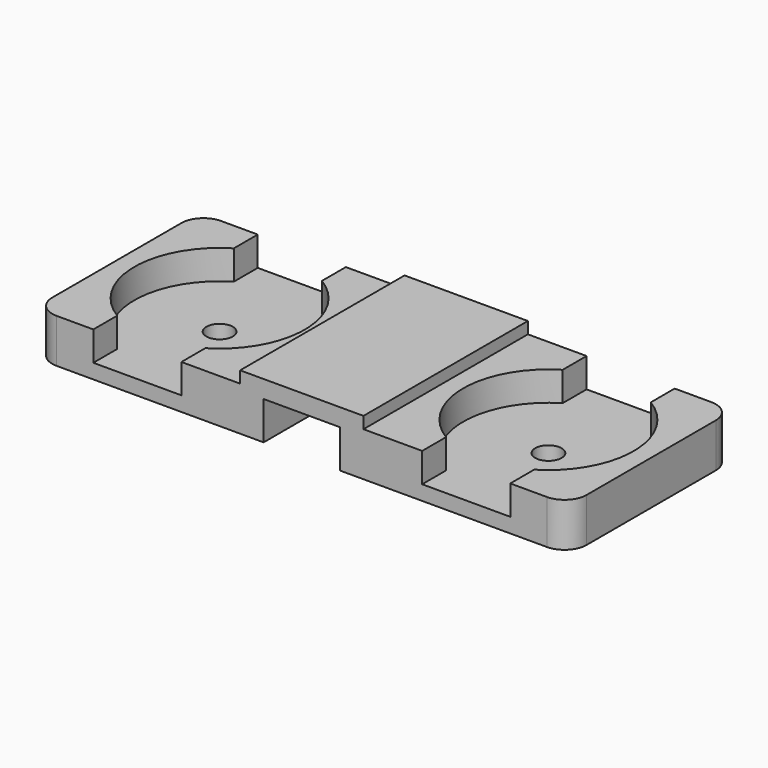
from build123d import *

# Parameters (mm, degrees)
PAD_DEPTH       = 7
SKETCH006_W     = 14
SKETCH006_H     = 14
PAD002_DEPTH    = 3
POCKET004_DEPTH = 2
SKETCH008_R     = 0.9
POCKET005_DEPTH = 1.001
FILLET001_R     = 1.5


with BuildPart() as clamp_unit001:
    # Sketch → Pad (new body, symmetric)
    with BuildSketch(Plane.XZ):
        Polygon((-2.6, 3.8), (4.2, 3.8), (4.2, 0), (2.6, 0), (2.6, 2.6), (-2.6, 2.6), (-2.6, 0), (-4.2, 0), (-4.2, 3.8), align=None)
    extrude(amount=PAD_DEPTH, both=True)


with BuildPart() as obj1:
    # Sketch006 → Pad002 (new body)
    with BuildSketch(Plane.XY):
        Rectangle(SKETCH006_W, SKETCH006_H)
    extrude(amount=PAD002_DEPTH)

    # Sketch007 → Pocket004 (cut)
    with BuildSketch(Plane.XY.offset(3)):
        with BuildLine():
            Line((-3, 7), (-3, 4.963869))
            ThreePointArc((-3, 4.963869), (-5.8, 0), (-3, -4.963869))
            Line((-3, -7), (-3, -4.963869))
            Line((3, -7), (-3, -7))
            Line((3, -4.963869), (3, -7))
            ThreePointArc((3, -4.963869), (5.8, 0), (3, 4.963869))
            Line((3, 7), (3, 4.963869))
            Line((-3, 7), (3, 7))
        make_face()
    extrude(amount=-POCKET004_DEPTH, mode=Mode.SUBTRACT)

    # Sketch008 → Pocket005 (cut, through all)
    with BuildSketch(Plane.XY.offset(1)):
        Circle(SKETCH008_R)
    extrude(amount=-POCKET005_DEPTH, mode=Mode.SUBTRACT)


with BuildPart() as obj1_1:
    # Clone placement: moved
    add(obj1.part.moved(Location((-11.2, 0, 0))))


with BuildPart() as obj2:
    # Clone004 base: copy of obj1
    add(obj1_1.part)


with BuildPart() as obj2_1:
    # Clone004 placement: moved
    add(obj2.part.moved(Location((22.4, 0, 0))))


with BuildPart() as wire_holder_double_rounded:
    # Fusion001 base: copy of obj1
    add(obj1_1.part)

    # Fusion001: union clamp-unit001, obj2
    add(clamp_unit001.part)
    add(obj2_1.part)

    # Fillet001
    fillet001_edges = [wire_holder_double_rounded.edges().sort_by_distance(p)[0] for p in [
        (-18.2, 7, 1.5),
        (18.2, 7, 1.5),
        (-18.2, -7, 1.5),
        (18.2, -7, 1.5),
    ]]
    fillet(fillet001_edges, radius=FILLET001_R)


solid = wire_holder_double_rounded.part
